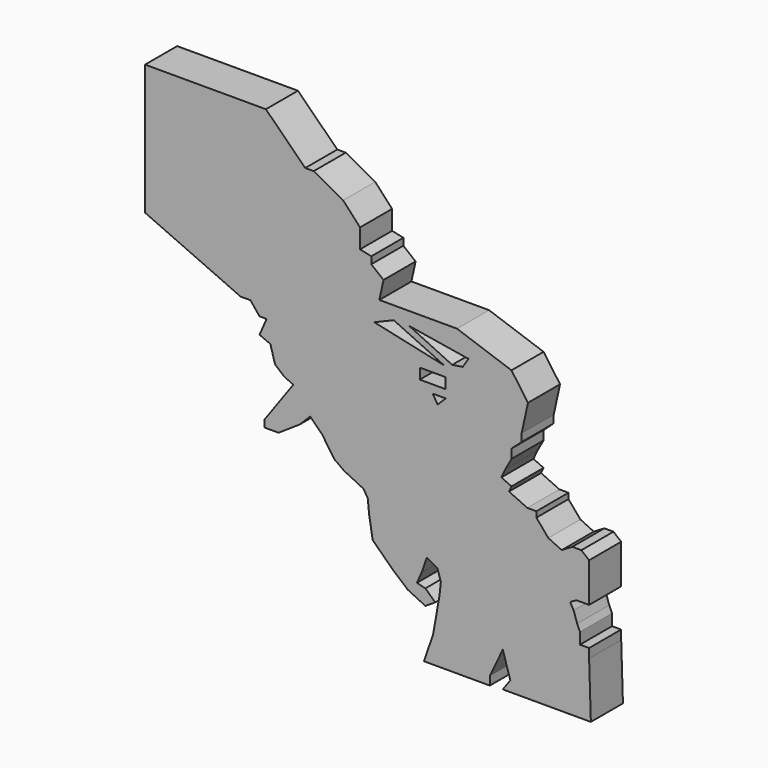
from build123d import *

# Parameters (mm, degrees)
F1_DEPTH = 5


with BuildPart() as f1:
    # F0 (on Front) → F1 (new body)
    with BuildSketch(Plane.XZ):
        Polygon((56.602631, 9.598027), (56.602631, 10.737107), (55.463549, 10.737107), (55.463549, 12.139052), (55.113062, 12.927647), (54.674953, 14.24197), (54.236848, 15.030565), (55.032882, 15.472803), (55.726416, 15.472803), (56.602631, 15.472803), (56.602631, 20.375481), (55.63879, 21.164075), (54.499712, 21.164075), (53.185388, 20.375481), (51.520579, 21.164075), (50.03101, 22.916507), (50.03101, 23.617478), (48.891932, 23.617478), (46.613768, 24.668938), (46.921512, 25.335718), (45.665746, 25.915302), (46.145314, 26.954366), (46.921512, 28.349044), (46.921512, 29.488124), (48.190959, 30.627204), (48.190959, 31.591043), (48.979554, 35.183527), (46.921512, 38.075037), (40.129773, 40.44082), (31.455237, 40.44082), (30.447589, 40.44082), (30.96698, 42.806929), (29.439941, 44.033308), (29.439941, 44.909522), (28.039239, 45.216994), (28.039239, 47.625791), (25.935078, 49.903952), (22.254972, 51.919248), (21.203512, 51.919248), (16.296705, 56.777831), (1.23168, 56.777831), (1.23168, 40.518545), (13.142328, 35.183527), (14.36903, 35.183527), (15.508111, 33.781581), (16.384326, 33.781581), (15.508111, 31.766284), (16.860185, 31.178426), (17.435785, 29.137637), (18.574866, 28.173801), (19.713946, 27.648071), (16.121462, 22.653641), (16.121462, 21.777425), (17.873893, 21.777425), (20.502539, 23.529857), (21.816865, 24.844181), (23.350241, 23.310802), (24.795998, 21.164075), (26.07753, 20.242271), (27.599888, 19.499265), (28.476104, 19.061157), (29.001834, 18.184941), (29.177075, 16.432509), (29.615184, 13.803862), (32.243829, 11.262836), (33.996262, 9.77327), (36.186803, 8.72181), (37.413504, 9.510404), (36.186803, 10.649486), (35.135344, 10.91235), (35.748694, 12.314295), (36.362045, 14.066727), (37.676368, 13.365754), (38.114477, 11.963809), (37.939236, 10.386621), (37.15064, 5.91792), (36.011558, 2.588299), (44.220895, 2.588299), (44.220895, 3.658485), (45.838311, 7.063572), (46.774711, 3.998994), (45.838311, 2.697169), (56.819715, 2.697169), align=None)
        Polygon((38.723323, 32.324277), (37.710983, 31.31194), (37.104577, 32.324277), align=None, mode=Mode.SUBTRACT)
        Polygon((35.48583, 34.657795), (38.723323, 34.652654), (38.723323, 33.336617), (35.48583, 33.336617), align=None, mode=Mode.SUBTRACT)
        Polygon((29.814744, 37.790902), (32.243829, 38.803242), (38.520854, 35.8845), align=None, mode=Mode.SUBTRACT)
        Polygon((41.557871, 37.588436), (40.849231, 36.474865), (39.53319, 36.272395), (34.1678, 38.803242), align=None, mode=Mode.SUBTRACT)
    extrude(amount=F1_DEPTH)


solid = f1.part
